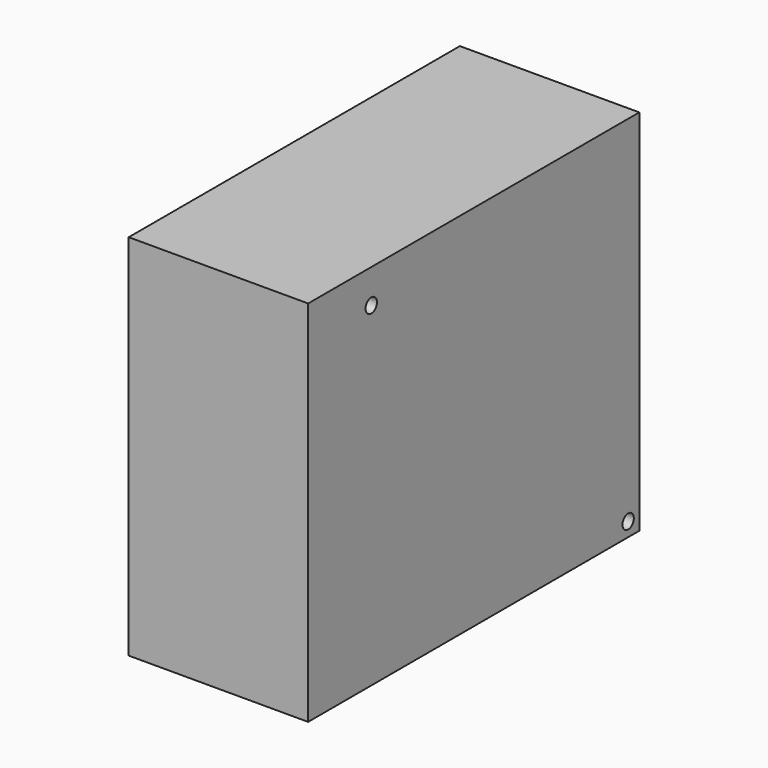
from build123d import *

# Parameters (mm, degrees)
CYLINDER001_R     = 1.64
CYLINDER001_DEPTH = 50
CYLINDER_R        = 1.64
CYLINDER_DEPTH    = 50
BOX067_W          = 95.5
BOX067_H          = 85
BOX067_DEPTH      = 41.4


with BuildPart() as cylinder001:
    # Cylinder001 → Cylinder001 (new body)
    with BuildSketch(Plane(origin=(417.2, 114.8, 13.2), x_dir=(0, 0, 1), z_dir=(-1, 0, 0))):
        Circle(CYLINDER001_R)
    extrude(amount=CYLINDER001_DEPTH)


with BuildPart() as cylinder:
    # Cylinder → Cylinder (new body)
    with BuildSketch(Plane(origin=(417.2, 40.7, 87.2), x_dir=(0, 0, 1), z_dir=(-1, 0, 0))):
        Circle(CYLINDER_R)
    extrude(amount=CYLINDER_DEPTH)


with BuildPart() as cut002:
    # Box067 → Box067 (new body)
    with BuildSketch(Plane(origin=(388, 118, 10), x_dir=(0, -1, 0), z_dir=(-1, 0, 0))):
        with Locations((47.75, 42.5)):
            Rectangle(BOX067_W, BOX067_H)
    extrude(amount=BOX067_DEPTH)

    # Cut001: cut Cylinder
    add(cylinder.part, mode=Mode.SUBTRACT)

    # Cut002: cut Cylinder001
    add(cylinder001.part, mode=Mode.SUBTRACT)


solid = cut002.part
